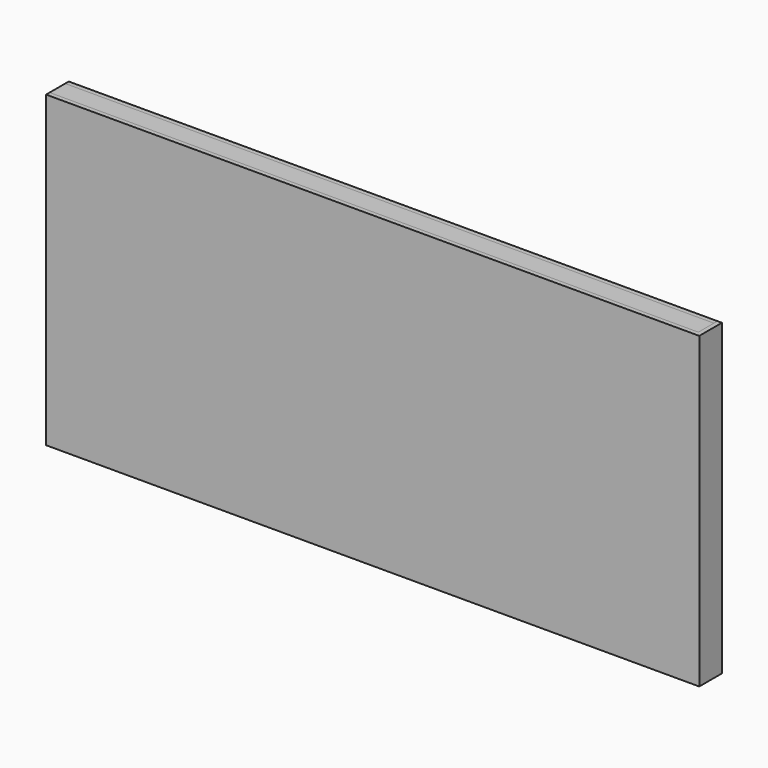
from build123d import *

# Parameters (mm, degrees)
F0_W     = 1740
F0_H     = 52
F1_DEPTH = 828
F3_DEPTH = 828
F4_W     = 1740
F4_H     = 12
F5_DEPTH = 828


with BuildPart() as f1:
    # F0 (on Top) → F1 (new body)
    with BuildSketch(Plane.XY):
        Rectangle(F0_W, F0_H)
    extrude(amount=F1_DEPTH)


with BuildPart() as f3:
    # F2 (on Top) → F3 (new body, through all)
    with BuildSketch(Plane.XY):
        Polygon((870, -26), (-870, -26), (-870, -38), (882, -38), (882, 38), (870, 38), align=None)
    extrude(amount=F3_DEPTH)


with BuildPart() as f5:
    # F4 (on Top) → F5 (new body, through all)
    with BuildSketch(Plane.XY):
        with Locations((0, 32)):
            Rectangle(F4_W, F4_H)
    extrude(amount=F5_DEPTH)


solid = Compound([f1.part, f3.part, f5.part])
